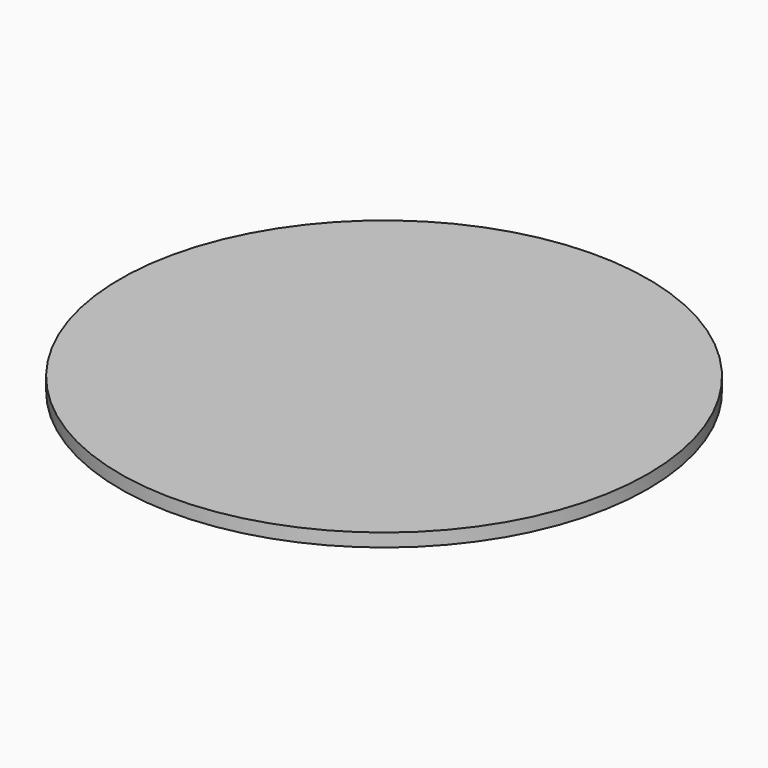
from build123d import *

# Parameters (mm, degrees)
BOX012_W          = 17
BOX012_H          = 14.6
BOX012_DEPTH      = 16.5
CYLINDER025_R     = 2.1
CYLINDER025_DEPTH = 2
CYLINDER024_R     = 2.1
CYLINDER024_DEPTH = 2
CYLINDER027_R     = 3.5
CYLINDER027_DEPTH = 0.75
BOX011_W          = 7
BOX011_H          = 35
BOX011_DEPTH      = 0.75
CYLINDER026_R     = 3.5
CYLINDER026_DEPTH = 0.75
CYLINDER022_R     = 4.5
CYLINDER022_DEPTH = 1.5
CYLINDER021_R     = 14
CYLINDER021_DEPTH = 19
BOX014_W          = 1
BOX014_H          = 5
BOX014_DEPTH      = 6
BOX013_W          = 1
BOX013_H          = 5
BOX013_DEPTH      = 6
CYLINDER023_R     = 2.5
CYLINDER023_DEPTH = 8.5
CYLINDER020_R     = 5
CYLINDER020_DEPTH = 9
CYLINDER019_R     = 50
CYLINDER019_DEPTH = 2.5


with BuildPart() as cube012:
    # Box012 → Box012 (new body)
    with BuildSketch(Plane(origin=(0, -7.3, 2.5), x_dir=(1, 0, 0), z_dir=(0, 0, 1))):
        with Locations((8.5, 7.3)):
            Rectangle(BOX012_W, BOX012_H)
    extrude(amount=BOX012_DEPTH)


with BuildPart() as cylinder025:
    # Cylinder025 → Cylinder025 (new body)
    with BuildSketch(Plane(origin=(0, 17.5, 18), x_dir=(1, 0, 0), z_dir=(0, 0, 1))):
        Circle(CYLINDER025_R)
    extrude(amount=CYLINDER025_DEPTH)


with BuildPart() as cylinder024:
    # Cylinder024 → Cylinder024 (new body)
    with BuildSketch(Plane(origin=(0, -17.5, 18), x_dir=(1, 0, 0), z_dir=(0, 0, 1))):
        Circle(CYLINDER024_R)
    extrude(amount=CYLINDER024_DEPTH)


with BuildPart() as cylinder027:
    # Cylinder027 → Cylinder027 (new body)
    with BuildSketch(Plane(origin=(0, 17.5, 18), x_dir=(1, 0, 0), z_dir=(0, 0, 1))):
        Circle(CYLINDER027_R)
    extrude(amount=CYLINDER027_DEPTH)


with BuildPart() as cube011:
    # Box011 → Box011 (new body)
    with BuildSketch(Plane(origin=(-3.5, -17.5, 18), x_dir=(1, 0, 0), z_dir=(0, 0, 1))):
        with Locations((3.5, 17.5)):
            Rectangle(BOX011_W, BOX011_H)
    extrude(amount=BOX011_DEPTH)


with BuildPart() as cut010:
    # Cylinder026 → Cylinder026 (new body)
    with BuildSketch(Plane(origin=(0, -17.5, 18), x_dir=(1, 0, 0), z_dir=(0, 0, 1))):
        Circle(CYLINDER026_R)
    extrude(amount=CYLINDER026_DEPTH)

    # Fusion005: union Cylinder027, Cube011
    add(cylinder027.part)
    add(cube011.part)


with BuildPart() as cut010_1:
    # Fusion005 placement: moved
    add(cut010.part.moved(Location((0, 0, 0.25))))

    # Cut009: cut Cylinder024
    add(cylinder024.part, mode=Mode.SUBTRACT)

    # Cut010: cut Cylinder025
    add(cylinder025.part, mode=Mode.SUBTRACT)


with BuildPart() as cylinder022:
    # Cylinder022 → Cylinder022 (new body)
    with BuildSketch(Plane(origin=(-8, 0, 19), x_dir=(1, 0, 0), z_dir=(0, 0, 1))):
        Circle(CYLINDER022_R)
    extrude(amount=CYLINDER022_DEPTH)


with BuildPart() as cylinder021:
    # Cylinder021 → Cylinder021 (new body)
    with BuildSketch(Plane.XY):
        Circle(CYLINDER021_R)
    extrude(amount=CYLINDER021_DEPTH)


with BuildPart() as cube014:
    # Box014 → Box014 (new body)
    with BuildSketch(Plane(origin=(-10.5, -2.5, 23), x_dir=(1, 0, 0), z_dir=(0, 0, 1))):
        with Locations((0.5, 2.5)):
            Rectangle(BOX014_W, BOX014_H)
    extrude(amount=BOX014_DEPTH)


with BuildPart() as cube013:
    # Box013 → Box013 (new body)
    with BuildSketch(Plane(origin=(-6.5, -2.5, 23), x_dir=(1, 0, 0), z_dir=(0, 0, 1))):
        with Locations((0.5, 2.5)):
            Rectangle(BOX013_W, BOX013_H)
    extrude(amount=BOX013_DEPTH)


with BuildPart() as fusion006:
    # Cylinder023 → Cylinder023 (new body)
    with BuildSketch(Plane(origin=(-8, 0, 20.5), x_dir=(1, 0, 0), z_dir=(0, 0, 1))):
        Circle(CYLINDER023_R)
    extrude(amount=CYLINDER023_DEPTH)

    # Cut011: cut Cube013
    add(cube013.part, mode=Mode.SUBTRACT)

    # Cut012: cut Cube014
    add(cube014.part, mode=Mode.SUBTRACT)

    # Fusion006: union Cube012, Cut010, Cylinder022, Cylinder021
    add(cube012.part)
    add(cut010_1.part)
    add(cylinder022.part)
    add(cylinder021.part)


with BuildPart() as fusion006_1:
    # Fusion006 placement: moved
    add(fusion006.part.moved(Location((8, 0, -10))))


with BuildPart() as cut013:
    # Cylinder020 → Cylinder020 (new body)
    with BuildSketch(Plane.XY.offset(11)):
        Circle(CYLINDER020_R)
    extrude(amount=CYLINDER020_DEPTH)

    # Cut013: cut Fusion006
    add(fusion006_1.part, mode=Mode.SUBTRACT)


with BuildPart() as bottom_plate:
    # Cylinder019 → Cylinder019 (new body)
    with BuildSketch(Plane.XY.offset(20)):
        Circle(CYLINDER019_R)
    extrude(amount=CYLINDER019_DEPTH)

    # Fusion007: union Cut013
    add(cut013.part)


solid = bottom_plate.part
